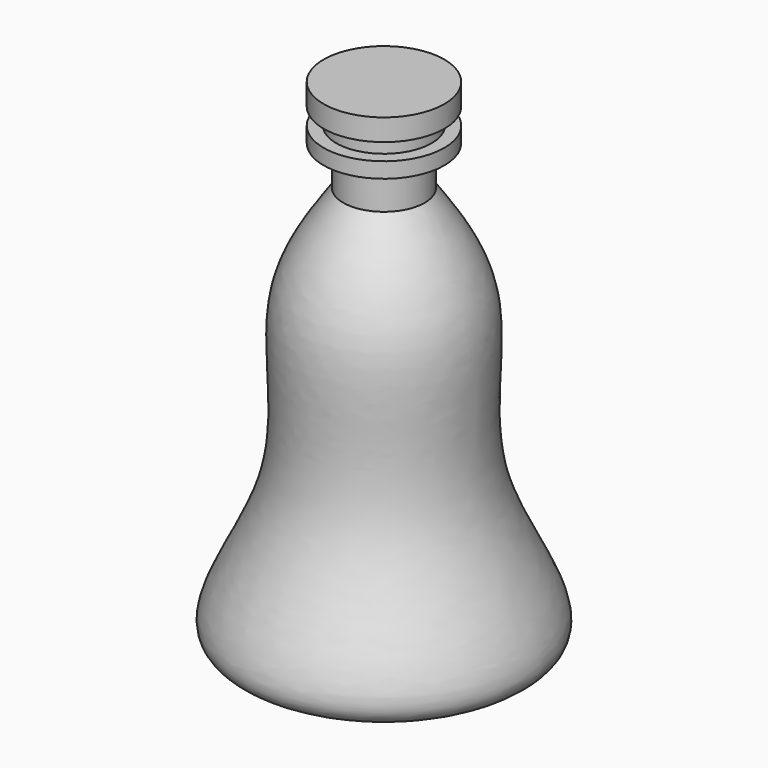
from build123d import *


with BuildPart() as f1:
    # F0 (on Front) → F1 (revolve)
    with BuildSketch(Plane.XZ):
        with BuildLine():
            Line((0, 59.4161190093), (0, 0))
            Line((0, 0), (0, -40.2137227356))
            add(Edge.make_bspline(
                [(8.0705750734, 40.9094616771), (12.3381065867, 34.8823579952), (21.7450664028, 21.5967567132), (13.4928425513, -9.7104652768), (39.3636923179, -42.0263137452), (13.2344220099, -40.8231318876), (0, -40.2137227356)],
                knots=[0, 0, 0, 0, 0.2235535481, 0.4927811867, 0.7430947077, 1, 1, 1, 1], degree=3))
            Line((8.0705750734, 40.9094616771), (8.0705750734, 48.701737076))
            Line((8.0705750734, 48.701737076), (11.9667127728, 48.701737076))
            Line((11.9667127728, 48.701737076), (11.9667127728, 51.7629906535))
            Line((11.9667127728, 51.7629906535), (9.4620529562, 51.7629906535))
            Line((9.4620529562, 51.7629906535), (9.4620529562, 55.1025420427))
            Line((9.4620529562, 55.1025420427), (11.9667127728, 55.1025420427))
            Line((11.9667127728, 55.1025420427), (11.9667127728, 59.4161190093))
            Line((11.9667127728, 59.4161190093), (0, 59.4161190093))
        make_face()
    revolve(axis=Axis((0, 0, 29.7080595046), (0, 0, 1)))


solid = f1.part
